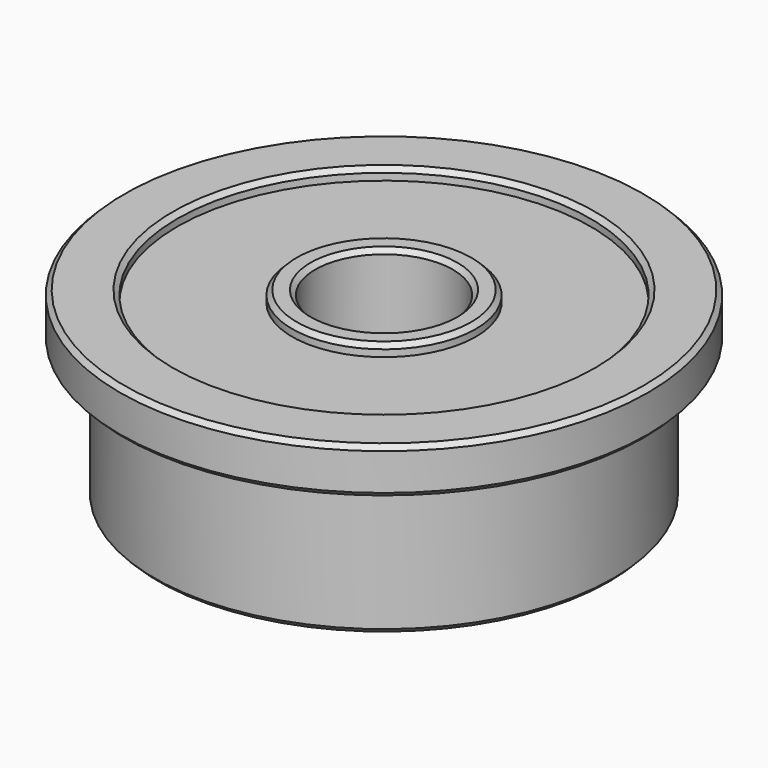
from build123d import *

# Parameters (mm, degrees)
F0_R     = 2
F0_R_2   = 1.5
F1_DEPTH = 0.25
F0_R_3   = 5
F0_R_4   = 4.5
F2_R     = 5
F2_R_2   = 4.5
F2_R_3   = 2
F2_R_4   = 1.5
F3_DEPTH = 2.75
F4_R     = 5.75
F4_R_2   = 5
F4_R_3   = 1.5
F5_DEPTH = 0.75
F6_R     = 5.75
F6_R_2   = 4.5
F6_R_3   = 2
F6_R_4   = 1.5
F7_DEPTH = 0.25
F8_SIZE  = 0.1


with BuildPart() as f1:
    # F0 (on Top) → F1 (new body)
    with BuildSketch(Plane.XY):
        Circle(F0_R)
        Circle(F0_R_2, mode=Mode.SUBTRACT)
    extrude(amount=F1_DEPTH)



with BuildPart() as f1b:
    # F0 (on Top) → F1, piece 2 (new body)
    with BuildSketch(Plane.XY):
        Circle(F0_R_3)
        Circle(F0_R_4, mode=Mode.SUBTRACT)
    extrude(amount=F1_DEPTH)


with BuildPart() as f1_1:
    add(f1.part)

    add(f1b.part)  # F3 merges F1b
    # F2 (on face) → F3 (join)
    with BuildSketch(Plane.XY.offset(0.25)):
        Circle(F2_R)
        Circle(F2_R_2, mode=Mode.SUBTRACT)
        Circle(F2_R_2)
        Circle(F2_R_3, mode=Mode.SUBTRACT)
        Circle(F2_R_3)
        Circle(F2_R_4, mode=Mode.SUBTRACT)
    extrude(amount=F3_DEPTH)

    # F4 (on face) → F5 (join)
    with BuildSketch(Plane.XY.offset(3)):
        Circle(F4_R)
        Circle(F4_R_2, mode=Mode.SUBTRACT)
        Circle(F4_R_2)
        Circle(F4_R_3, mode=Mode.SUBTRACT)
    extrude(amount=F5_DEPTH)

    # F6 (on face) → F7 (join)
    with BuildSketch(Plane.XY.offset(3.75)):
        Circle(F6_R)
        Circle(F6_R_2, mode=Mode.SUBTRACT)
        Circle(F6_R_3)
        Circle(F6_R_4, mode=Mode.SUBTRACT)
    extrude(amount=F7_DEPTH)

    # F8
    f8_edges = [f1_1.edges().sort_by_distance(p)[0] for p in [
        (-5, 0, 0),
        (-5.75, 0, 3),
        (-5.75, 0, 4),
        (-4.5, 0, 4),
        (-4.5, 0, 0.25),
        (-2, 0, 0),
        (-1.5, 0, 0),
        (-2, 0, 4),
        (-1.5, 0, 4),
    ]]
    chamfer(f8_edges, length=F8_SIZE)


solid = f1_1.part
